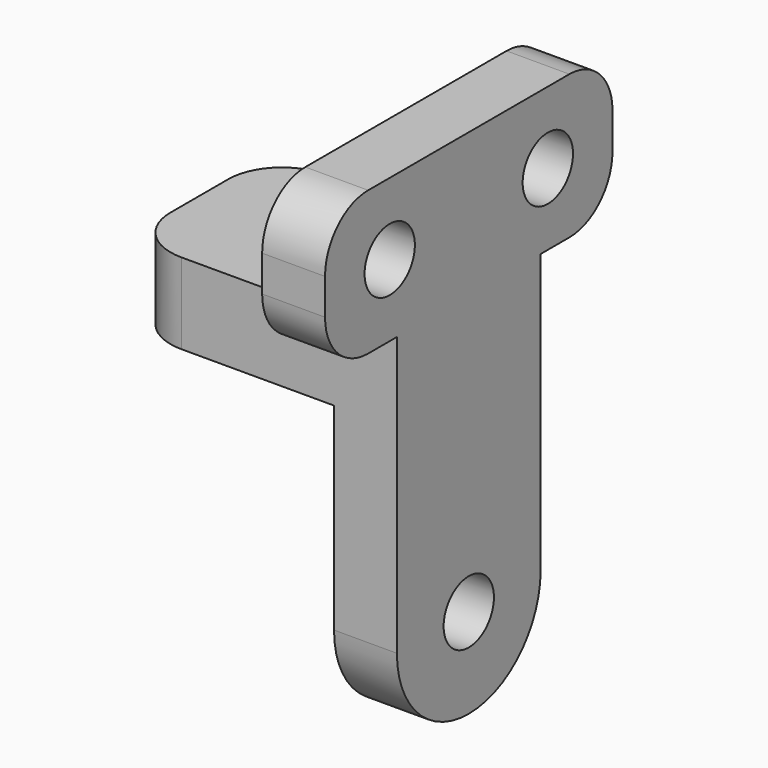
from build123d import *

# Parameters (mm, degrees)
SKETCH023_R              = 1.75
PAD024_DEPTH             = 40
PAD025_DEPTH             = 70
FILLET011_R              = 3
CLONE134_PLACEMENT_ANGLE = 180


with BuildPart() as pad024:
    # Sketch023 → Pad024 (new body)
    with BuildSketch(Plane(origin=(-50, 0, 0), x_dir=(0, -1, 0), z_dir=(-1, 0, 0))):
        with BuildLine():
            ThreePointArc((-5, 18), (1e-05, 13), (5, 18.000021))
            Line((5, 33.500021), (5, 18.000021))
            Line((10, 33.500021), (5, 33.500021))
            Line((10, 41.5), (10, 33.500021))
            Line((-10, 41.5), (10, 41.5))
            Line((-10, 33.5), (-10, 41.5))
            Line((-5, 33.5), (-10, 33.5))
            Line((-5, 18), (-5, 33.5))
        make_face()
        with Locations((-5.5, 37.5)):
            Circle(SKETCH023_R, mode=Mode.SUBTRACT)
        with Locations((5.5, 37.5)):
            Circle(SKETCH023_R, mode=Mode.SUBTRACT)
        with Locations((0, 18)):
            Circle(SKETCH023_R, mode=Mode.SUBTRACT)
    extrude(amount=-PAD024_DEPTH)


with BuildPart() as clone_of_support001:
    # Sketch022 → Pad025 (new body)
    with BuildSketch(Plane.XZ.offset(40)):
        Polygon((-31.5, 12), (-35, 12), (-35, 53.5), (-31.5, 53.5), (-31.5, 33.5), (-20, 33.5), (-20, 29), (-31.5, 29), align=None)
    extrude(amount=-PAD025_DEPTH)

    # Common001: intersect Pad024
    add(pad024.part, mode=Mode.INTERSECT)

    # Fillet011
    fillet011_edges = [clone_of_support001.edges().sort_by_distance(p)[0] for p in [
        (-20, -5, 31.25),
        (-20, 5, 31.25),
        (-33.25, -10, 33.500021),
        (-33.25, 10, 33.5),
        (-33.25, -10, 41.5),
        (-33.25, 10, 41.5),
    ]]
    fillet(fillet011_edges, radius=FILLET011_R)


with BuildPart() as clone_of_support001_1:
    # Clone134 placement: moved
    add(clone_of_support001.part.rotate(Axis((0, 0, 0), (0, 0, 1)), CLONE134_PLACEMENT_ANGLE))


solid = clone_of_support001_1.part
